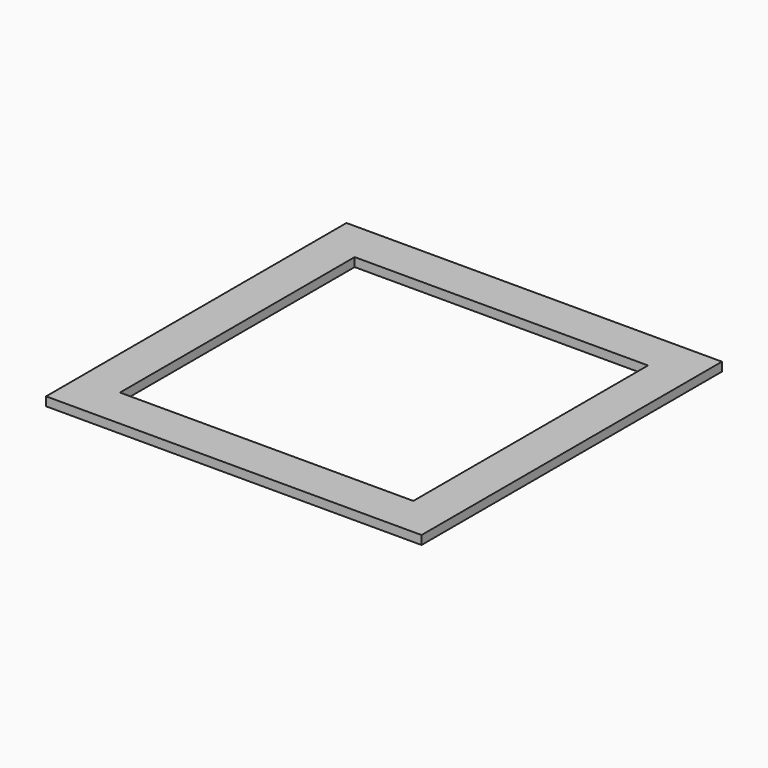
from build123d import *

# Parameters (mm, degrees)
F0_W     = 64
F0_H     = 64
F1_DEPTH = 1.5
F2_W     = 50
F2_H     = 50
F3_DEPTH = 1.501


with BuildPart() as f1:
    # F0 (on Top) → F1 (new body)
    with BuildSketch(Plane.XY):
        Rectangle(F0_W, F0_H)
    extrude(amount=F1_DEPTH)

    # F2 (on Top) → F3 (cut, through all)
    with BuildSketch(Plane.XY):
        Rectangle(F2_W, F2_H)
    extrude(amount=F3_DEPTH, mode=Mode.SUBTRACT)


solid = f1.part
